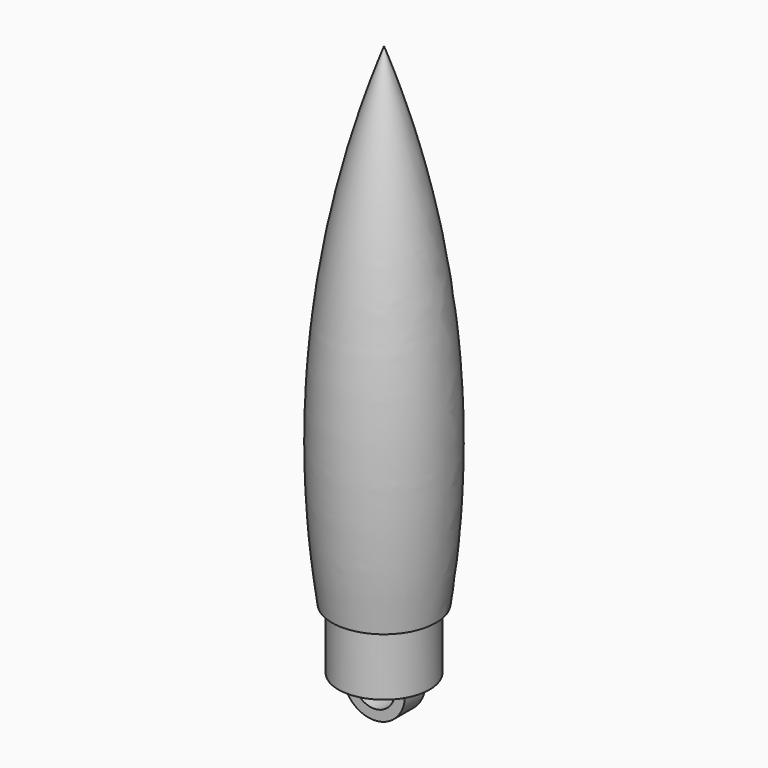
from build123d import *

# Parameters (mm, degrees)
F3_DEPTH = 2.5


with BuildPart() as f1:
    # F0 (on Front) → F1 (revolve)
    with BuildSketch(Plane.XZ):
        with BuildLine():
            ThreePointArc((10.25, 12), (11.181946, 61.016692), (0, 108.75))
            Line((0, 108.75), (0, 0))
            Line((0, 0), (9, 0))
            Line((9, 0), (9, 12))
            Line((9, 12), (10.25, 12))
        make_face()
    revolve(axis=Axis((0, 0, 54.375), (0, 0, -1)))

    # F2 (on Front) → F3 (join, symmetric)
    with BuildSketch(Plane.XZ):
        with BuildLine():
            Line((-3.949684, 0), (-6, 0))
            ThreePointArc((-6, 0), (0, -7.2), (6, 0))
            Line((6, 0), (3.949684, 0))
            ThreePointArc((3.949684, 0), (0, -5.2), (-3.949684, 0))
        make_face()
    extrude(amount=F3_DEPTH, both=True)


solid = f1.part
